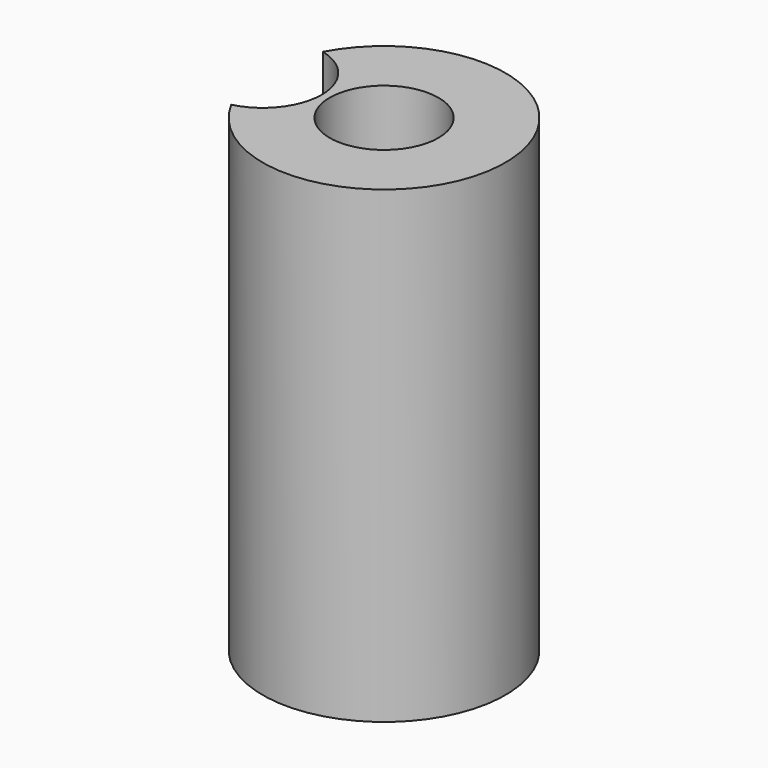
from build123d import *

# Parameters (mm, degrees)
F0_R     = 10.31875
F1_DEPTH = 12.7
F2_DEPTH = 88.9


with BuildPart() as f1:
    # F0 (on Top) → F1 (new body)
    with BuildSketch(Plane.XY):
        Circle(F0_R)
    extrude(amount=F1_DEPTH)


with BuildPart() as f2:
    # F0 (on Top) → F2 (new body)
    with BuildSketch(Plane.XY):
        with BuildLine():
            ThreePointArc((-20.29315, 10.865124), (-11.816972, 0), (-20.29315, -10.865124))
            ThreePointArc((-20.29315, -10.865124), (23.01875, 0), (-20.29315, 10.865124))
        make_face()
        Circle(F0_R, mode=Mode.SUBTRACT)
    extrude(amount=F2_DEPTH)


solid = Compound([f1.part, f2.part])
